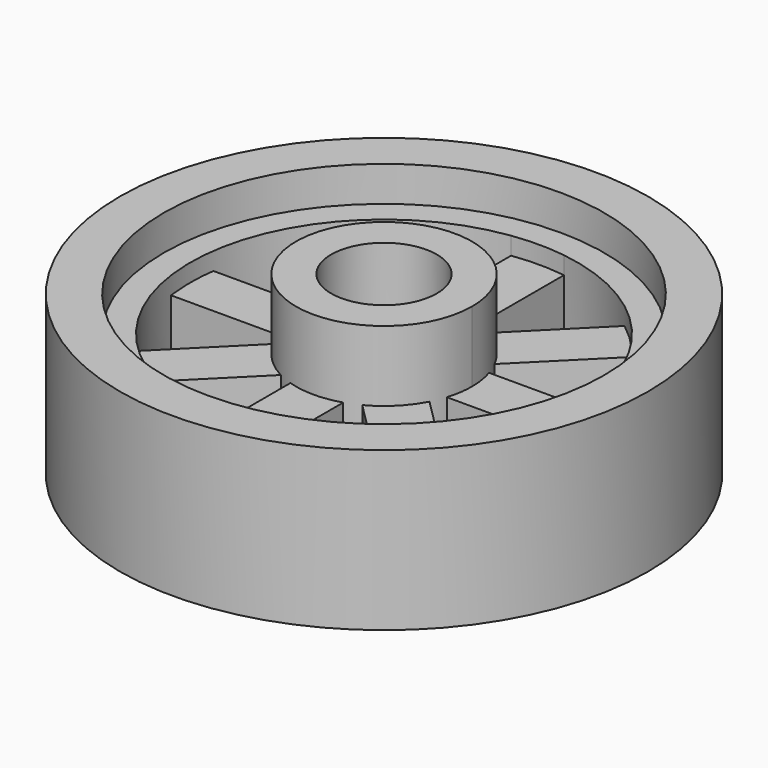
from build123d import *

# Parameters (mm, degrees)
F0_R      = 3
F1_DEPTH  = 10
F0_R_2    = 15
F0_R_3    = 12.5
F2_DEPTH  = 9
F3_DEPTH  = 7
F4_DEPTH  = 6
F5_ANGLE  = 45
F6_ANGLE  = 45
F7_ANGLE  = 45
F8_ANGLE  = 45
F9_ANGLE  = -45
F10_ANGLE = -45
F11_ANGLE = 45


with BuildPart() as f1:
    # F0 (on Top) → F1 (new body)
    with BuildSketch(Plane.XY):
        with BuildLine():
            ThreePointArc((5, 0), (4.031129, 2.95804), (1.5, 4.769696))
            ThreePointArc((1.5, 4.769696), (0, 5), (-1.5, 4.769696))
            ThreePointArc((-1.5, 4.769696), (-2.95804, -4.031129), (5, 0))
        make_face()
        Circle(F0_R, mode=Mode.SUBTRACT)
    extrude(amount=F1_DEPTH)


with BuildPart() as f2:
    # F0 (on Top) → F2 (new body)
    with BuildSketch(Plane.XY):
        Circle(F0_R_2)
        Circle(F0_R_3, mode=Mode.SUBTRACT)
    extrude(amount=F2_DEPTH)

    # F0 (on Top) → F3 (join)
    with BuildSketch(Plane.XY):
        Circle(F0_R_3)
        with BuildLine():
            ThreePointArc((1.5, 10.897247), (8.291562, 7.228416), (11, 0))
            ThreePointArc((11, 0), (-7.228416, -8.291562), (-1.5, 10.897247))
            ThreePointArc((-1.5, 10.897247), (0, 11), (1.5, 10.897247))
        make_face(mode=Mode.SUBTRACT)
    extrude(amount=F3_DEPTH)


with BuildPart() as f4:
    # F0 (on Top) → F4 (new body)
    with BuildSketch(Plane.XY):
        with BuildLine():
            Line((1.5, 4.769696), (1.5, 10.897247))
            ThreePointArc((1.5, 10.897247), (0, 11), (-1.5, 10.897247))
            Line((-1.5, 10.897247), (-1.5, 4.769696))
            ThreePointArc((-1.5, 4.769696), (0, 5), (1.5, 4.769696))
        make_face()
    extrude(amount=F4_DEPTH)


with BuildPart() as f5_1:
    # F5: copy of F4
    add(f4.part.rotate(Axis((0, 0, 0), (0, 0, -1)), F5_ANGLE))


with BuildPart() as f6_1:
    # F6: copy of F5_1
    add(f5_1.part.rotate(Axis((0, 0, 0), (0, 0, -1)), F6_ANGLE))


with BuildPart() as f7_1:
    # F7: copy of F6_1
    add(f6_1.part.rotate(Axis((0, 0, 0), (0, 0, -1)), F7_ANGLE))


with BuildPart() as f8_1:
    # F8: copy of F7_1
    add(f7_1.part.rotate(Axis((0, 0, 0), (0, 0, -1)), F8_ANGLE))


with BuildPart() as f9_1:
    # F9: copy of F8_1
    add(f8_1.part.rotate(Axis((0, 0, 0), (0, 0, 1)), F9_ANGLE))


with BuildPart() as f10_1:
    # F10: copy of F9_1
    add(f9_1.part.rotate(Axis((0, 0, 0), (0, 0, 1)), F10_ANGLE))


with BuildPart() as f11_1:
    # F11: copy of F10_1
    add(f10_1.part.rotate(Axis((0, 0, 0), (0, 0, -1)), F11_ANGLE))


solid = Compound([f1.part, f2.part, f4.part, f5_1.part, f6_1.part, f7_1.part, f8_1.part, f9_1.part, f10_1.part, f11_1.part])
